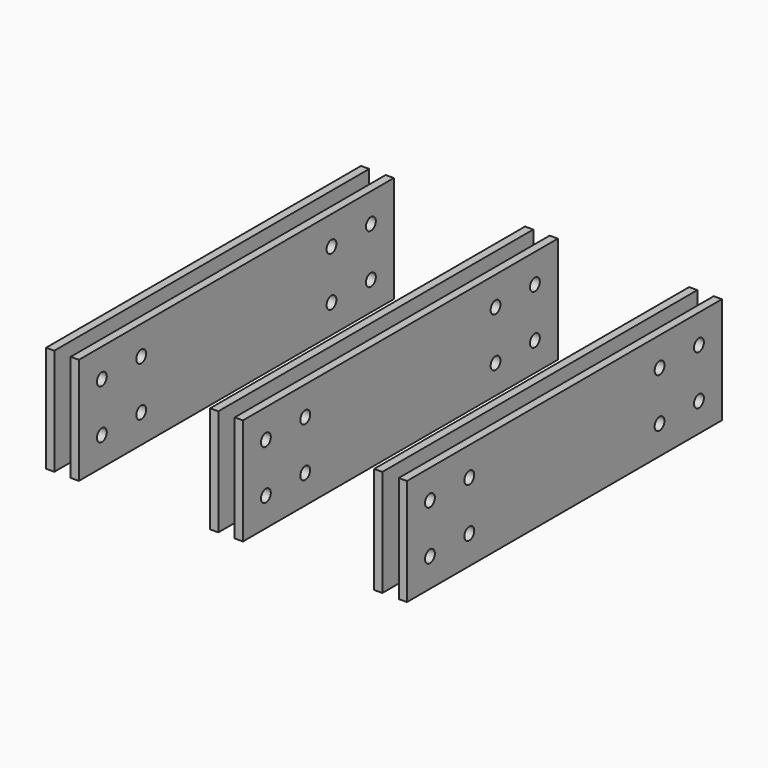
from build123d import *

# Parameters (mm, degrees)
F0_W          = 6.35
F0_H          = 304.8
F1_DEPTH      = 41.275
F2_R          = 4.7625
F3_DEPTH      = 25.401
F3_DEPTH_BACK = 254.001


with BuildPart() as f1:
    # F0 (on Top) → F1 (new body, symmetric)
    with BuildSketch(Plane.XY):
        with Locations((3.175, 152.4)):
            Rectangle(F0_W, F0_H)
    extrude(amount=F1_DEPTH, both=True)


with BuildPart() as f1b:
    # F0 (on Top) → F1, piece 2 (new body, symmetric)
    with BuildSketch(Plane.XY):
        with Locations((22.225, 152.4)):
            Rectangle(F0_W, F0_H)
    extrude(amount=F1_DEPTH, both=True)


with BuildPart() as f1c:
    # F0 (on Top) → F1, piece 3 (new body, symmetric)
    with BuildSketch(Plane.XY):
        with Locations((130.175, 152.4)):
            Rectangle(F0_W, F0_H)
    extrude(amount=F1_DEPTH, both=True)


with BuildPart() as f1d:
    # F0 (on Top) → F1, piece 4 (new body, symmetric)
    with BuildSketch(Plane.XY):
        with Locations((149.225, 152.4)):
            Rectangle(F0_W, F0_H)
    extrude(amount=F1_DEPTH, both=True)


with BuildPart() as f1e:
    # F0 (on Top) → F1, piece 5 (new body, symmetric)
    with BuildSketch(Plane.XY):
        with Locations((257.175, 152.4)):
            Rectangle(F0_W, F0_H)
    extrude(amount=F1_DEPTH, both=True)


with BuildPart() as f1f:
    # F0 (on Top) → F1, piece 6 (new body, symmetric)
    with BuildSketch(Plane.XY):
        with Locations((276.225, 152.4)):
            Rectangle(F0_W, F0_H)
    extrude(amount=F1_DEPTH, both=True)


with BuildPart() as f3_tool:
    # F2 (on face) → F3 (new body, two sides)
    with BuildSketch(Plane.YZ.offset(25.4)) as f3_sk:
        with Locations((282.575, 19.05)):
            Circle(F2_R)
        with Locations((282.575, -19.05)):
            Circle(F2_R)
        with Locations((244.475, -19.05)):
            Circle(F2_R)
        with Locations((244.475, 19.05)):
            Circle(F2_R)
        with Locations((60.325, 19.05)):
            Circle(F2_R)
        with Locations((60.325, -19.05)):
            Circle(F2_R)
        with Locations((22.225, -19.05)):
            Circle(F2_R)
        with Locations((22.225, 19.05)):
            Circle(F2_R)
    extrude(amount=-F3_DEPTH)
    extrude(f3_sk.sketch, amount=F3_DEPTH_BACK)


with BuildPart() as f1_1:
    add(f1.part)

    # F3: cut by f3_tool
    add(f3_tool.part, mode=Mode.SUBTRACT)


with BuildPart() as f1b_1:
    add(f1b.part)

    # F3: cut by f3_tool
    add(f3_tool.part, mode=Mode.SUBTRACT)


with BuildPart() as f1c_1:
    add(f1c.part)

    # F3: cut by f3_tool
    add(f3_tool.part, mode=Mode.SUBTRACT)


with BuildPart() as f1d_1:
    add(f1d.part)

    # F3: cut by f3_tool
    add(f3_tool.part, mode=Mode.SUBTRACT)


with BuildPart() as f1e_1:
    add(f1e.part)

    # F3: cut by f3_tool
    add(f3_tool.part, mode=Mode.SUBTRACT)


with BuildPart() as f1f_1:
    add(f1f.part)

    # F3: cut by f3_tool
    add(f3_tool.part, mode=Mode.SUBTRACT)


solid = Compound([f1_1.part, f1b_1.part, f1c_1.part, f1d_1.part, f1e_1.part, f1f_1.part])
